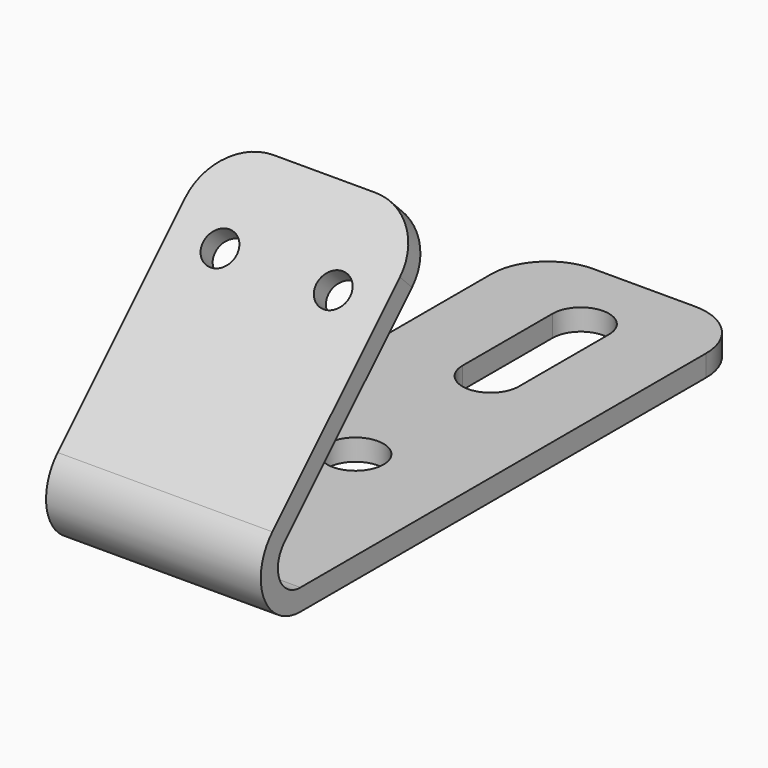
from build123d import *

# Parameters (mm, degrees)
F1_DEPTH = 9.525
F2_R     = 1.5
F3_DEPTH = 1.9
F4_R     = 2.5
F5_DEPTH = 1.9
F6_R     = 5


with BuildPart() as f1:
    # F0 (on Right) → F1 (new body, symmetric)
    with BuildSketch(Plane.YZ):
        with BuildLine():
            Line((14.5663996924, 20.7889393669), (-3.1112698372, 3.1112698372))
            ThreePointArc((-3.1112698372, 3.1112698372), (-4.065069943, -1.6838071024), (0, -4.4))
            Line((0, -4.4), (50, -4.4))
            Line((50, -4.4), (50, -2.5))
            Line((50, -2.5), (0, -2.5))
            ThreePointArc((0, -2.5), (-2.3096988313, -0.9567085809), (-1.767766953, 1.767766953))
            Line((-1.767766953, 1.767766953), (15.9099025767, 19.4454364826))
            Line((15.9099025767, 19.4454364826), (14.5663996924, 20.7889393669))
        make_face()
    extrude(amount=F1_DEPTH, both=True)

    # F2 (on face) → F3 (cut, through all)
    with BuildSketch(Plane(origin=(0, -3.1112698372, 3.1112698372), x_dir=(1, 0, 0), z_dir=(0, -0.7071067812, 0.7071067812))):
        with Locations((-5.025, 17.5)):
            Circle(F2_R)
        with Locations((5.025, 17.5)):
            Circle(F2_R)
    extrude(amount=-F3_DEPTH, mode=Mode.SUBTRACT)

    # F4 (on face) → F5 (cut, through all)
    with BuildSketch(Plane.XY.offset(-2.5)):
        with Locations((0, 18)):
            Circle(F4_R)
        with BuildLine():
            ThreePointArc((-2.5, 33), (0, 30.5), (2.5, 33))
            Line((2.5, 33), (2.5, 43))
            ThreePointArc((2.5, 43), (0, 45.5), (-2.5, 43))
            Line((-2.5, 43), (-2.5, 33))
        make_face()
    extrude(amount=-F5_DEPTH, mode=Mode.SUBTRACT)

    # F6
    f6_edges = [f1.edges().sort_by_distance(p)[0] for p in [
        (9.525, 15.238151, 20.117188),
        (-9.525, 15.238151, 20.117188),
        (-9.525, 50, -3.45),
        (9.525, 50, -3.45),
    ]]
    fillet(f6_edges, radius=F6_R)


solid = f1.part
